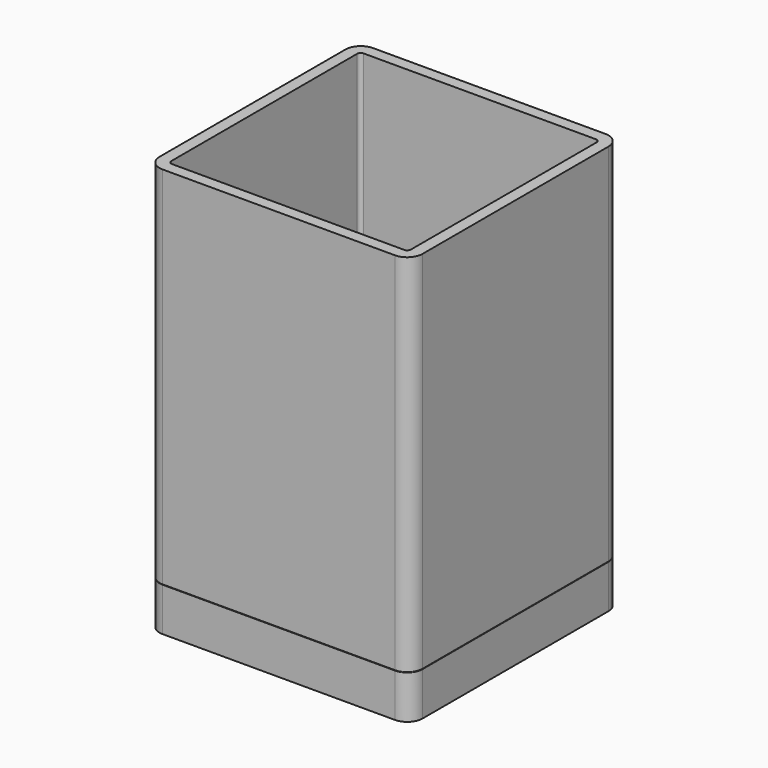
from build123d import *

# Parameters (mm, degrees)
F0_W     = 72
F0_H     = 72
F1_DEPTH = 100
F2_R     = 4.2
F3_T     = -3.2
F5_START = 0.1
F5_DEPTH = 11.9


with BuildPart() as f1:
    # F0 (on Top) → F1 (new body)
    with BuildSketch(Plane.XY):
        Rectangle(F0_W, F0_H)
    extrude(amount=F1_DEPTH)

    # F2
    f2_edges = [f1.edges().sort_by_distance(p)[0] for p in [
        (-36, -36, 50),
        (36, -36, 50),
        (36, 36, 50),
        (-36, 36, 50),
    ]]
    fillet(f2_edges, radius=F2_R)

    # F3
    f3_openings = [f1.faces().sort_by_distance(p)[0] for p in [
        (0, 0, 100),
    ]]
    offset(amount=F3_T, openings=f3_openings)


with BuildPart() as f5:
    # F4 (on face) → F5 (new body)
    with BuildSketch(Plane(origin=(0, 0, 0), x_dir=(1, 0, 0), z_dir=(0, 0, -1)).offset(F5_START)):
        with BuildLine():
            ThreePointArc((31.8, -36), (34.769848481, -34.769848481), (36, -31.8))
            Line((36, -31.8), (36, 31.8))
            ThreePointArc((36, 31.8), (34.769848481, 34.769848481), (31.8, 36))
            Line((31.8, 36), (-31.8, 36))
            ThreePointArc((-31.8, 36), (-34.769848481, 34.769848481), (-36, 31.8))
            Line((-36, 31.8), (-36, -31.8))
            ThreePointArc((-36, -31.8), (-34.769848481, -34.769848481), (-31.8, -36))
            Line((-31.8, -36), (31.8, -36))
        make_face()
    extrude(amount=F5_DEPTH)


solid = Compound([f1.part, f5.part])
